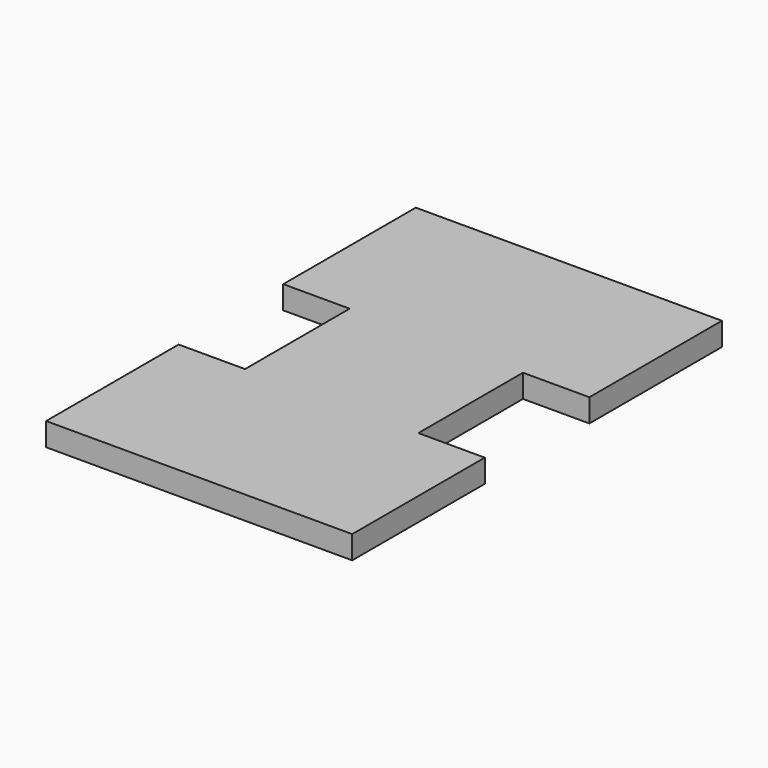
from build123d import *

# Parameters (mm, degrees)
F0_W     = 19.05
F0_H     = 7.1882
F1_DEPTH = 2.54


with BuildPart() as f1:
    # F0 (on Top) → F1 (new body)
    with BuildSketch(Plane.XY):
        Polygon((-16.8275, -22.445938), (-9.525, -22.445938), (9.525, -22.445938), (16.8275, -22.445938), (16.8275, -4.234138), (-16.8275, -4.234138), align=None)
        with Locations((0, -26.040038)):
            Rectangle(F0_W, F0_H)
        with Locations((0, -33.228238)):
            Rectangle(F0_W, F0_H)
        Polygon((-9.525, -36.822338), (-16.8275, -36.822338), (-16.8275, -55.034138), (16.8275, -55.034138), (16.8275, -36.822338), (9.525, -36.822338), align=None)
    extrude(amount=-F1_DEPTH)


solid = f1.part
